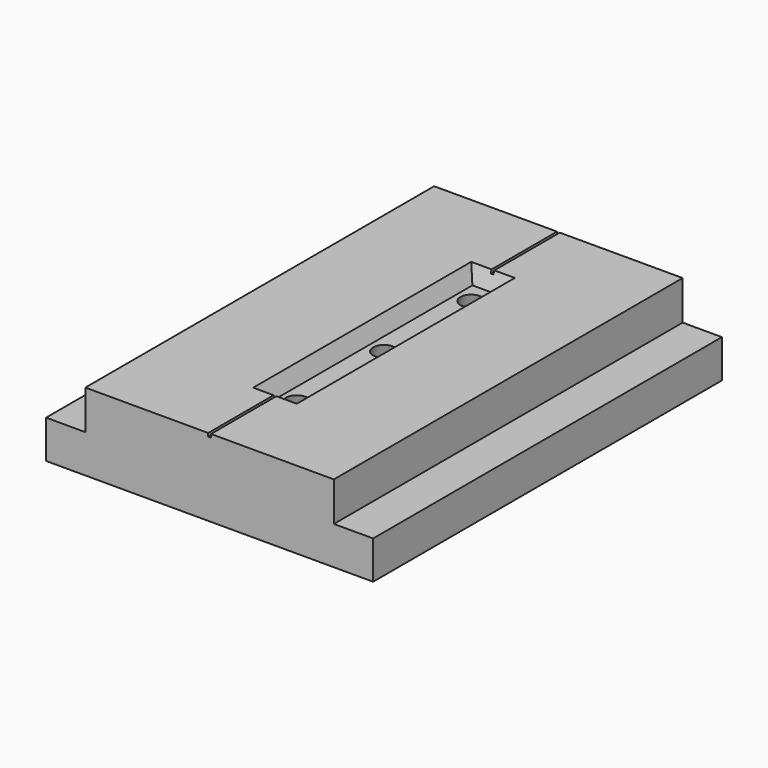
from build123d import *

# Parameters (mm, degrees)
F0_W     = 30
F0_H     = 40
F1_DEPTH = 7.1
F2_W     = 4
F2_H     = 25
F3_DEPTH = 1.5
F3_TAPER = 20
F4_W     = 3.6
F4_H     = 3.6
F5_DEPTH = 40.001
F6_R     = 1
F7_DEPTH = 20
F7_TAPER = -20


with BuildPart() as f1:
    # F0 (on Top) → F1 (new body)
    with BuildSketch(Plane.XY):
        with Locations((15, 20)):
            Rectangle(F0_W, F0_H)
    extrude(amount=F1_DEPTH)

    # F2 (on face) → F3 (cut)
    with BuildSketch(Plane.XY.offset(7.1)):
        with Locations((15, 20)):
            Rectangle(F2_W, F2_H)
    extrude(amount=-F3_DEPTH, taper=F3_TAPER, mode=Mode.SUBTRACT)

    # F4 (on face) → F5 (cut, through all)
    with BuildSketch(Plane.XZ):
        with Locations((1.8, 5.3)):
            Rectangle(F4_W, F4_H)
        Polygon((15, 7.1), (14.875, 7.1), (14.875, 6.8), (15, 6.8), (15.125, 6.8), (15.125, 7.1), align=None)
        with Locations((28.2, 5.3)):
            Rectangle(F4_W, F4_H)
    extrude(amount=-F5_DEPTH, mode=Mode.SUBTRACT)

    # F6 (on face) → F7 (cut)
    with BuildSketch(Plane.XY.offset(5.6)):
        with Locations((15, 30)):
            Circle(F6_R)
        with Locations((15, 20)):
            Circle(F6_R)
        with Locations((15, 10)):
            Circle(F6_R)
    extrude(amount=-F7_DEPTH, taper=F7_TAPER, mode=Mode.SUBTRACT)


solid = f1.part
